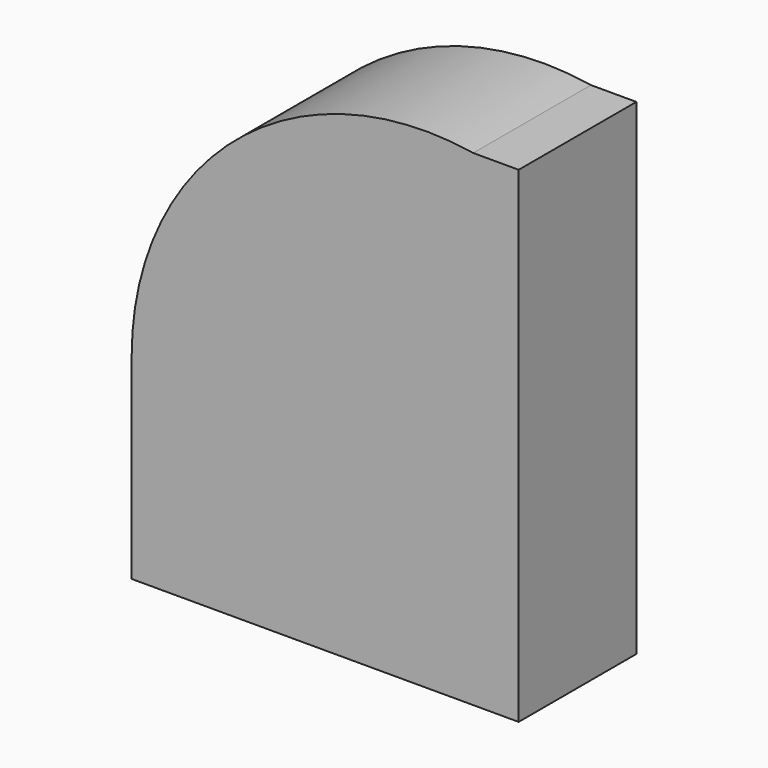
from build123d import *

# Parameters (mm, degrees)
F0_W     = 58.984034
F0_H     = 33.798974
F1_DEPTH = 25.4


with BuildPart() as f1:
    # F0 (on Front) → F1 (new body)
    with BuildSketch(Plane.XZ):
        Polygon((-7.850095, 0), (0, 0), (0, 83.935404), (-7.850095, 83.935404), (-7.850095, 33.798974), align=None)
        with Locations((-37.342112, 16.899487)):
            Rectangle(F0_W, F0_H)
        with BuildLine():
            Line((-66.834129, 33.798974), (-7.850095, 33.798974))
            Line((-7.850095, 33.798974), (-7.850095, 83.935404))
            ThreePointArc((-7.850095, 83.935404), (-48.934669, 72.505491), (-66.834129, 33.798974))
        make_face()
    extrude(amount=F1_DEPTH)


solid = f1.part
